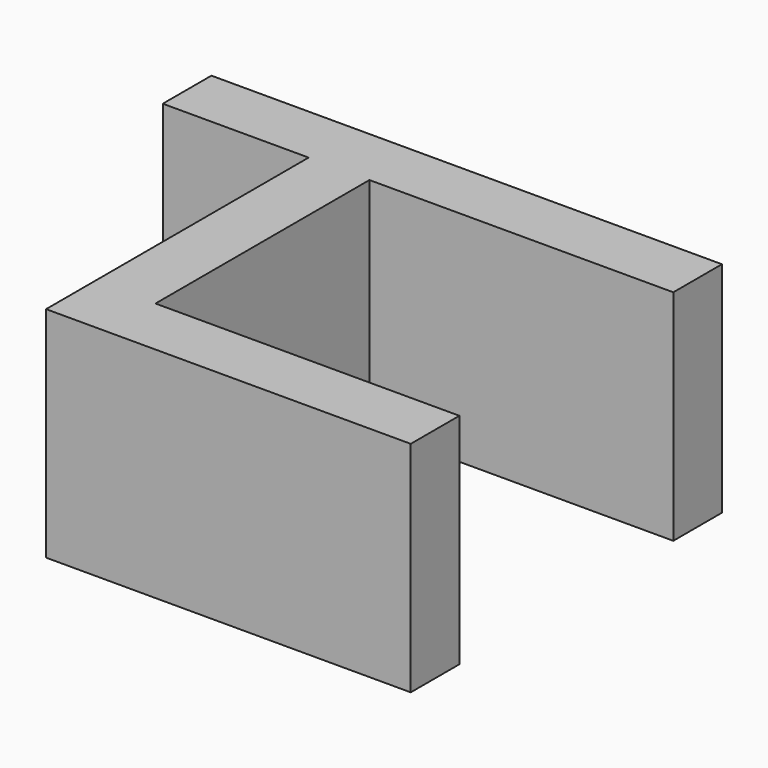
from build123d import *

# Parameters (mm, degrees)
F0_W     = 25
F0_H     = 5
F1_DEPTH = 18
F3_D     = 5.5
F3_DEPTH = 10
F3_TIP   = 1.6523667023


with BuildPart() as f1:
    # F0 (on Top) → F1 (new body)
    with BuildSketch(Plane.XY):
        Polygon((0, 5), (0, 0), (12, 0), (17, 0), (42, 0), (42, 5), align=None)
        Polygon((17, 0), (12, 0), (12, -27), (17, -27), (17, -22), align=None)
        with Locations((29.5, -24.5)):
            Rectangle(F0_W, F0_H)
    extrude(amount=F1_DEPTH)

    # F3
    with Locations(Plane.XZ):
        with Locations((6, 9)):
            Hole(F3_D / 2, depth=F3_DEPTH)
            with Locations((0, 0, -(F3_DEPTH + F3_TIP / 2))):  # 118° drill point
                Cone(0, F3_D / 2, F3_TIP, mode=Mode.SUBTRACT)


solid = f1.part
